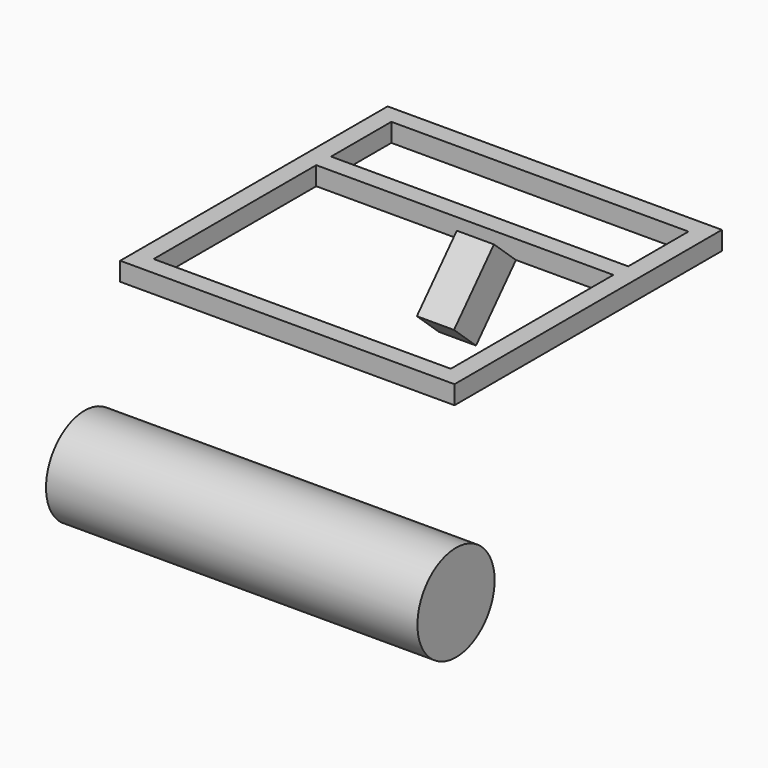
from build123d import *

# Parameters (mm, degrees)
F0_W     = 90
F0_H     = 90
F0_W_2   = 80
F0_H_2   = 5
F1_DEPTH = 5
F3_DEPTH = 10
F2_R     = 12.986588295
F5_DEPTH = 100


with BuildPart() as f1:
    # F0 (on Top) → F1 (new body)
    with BuildSketch(Plane.XY):
        Rectangle(F0_W, F0_H)
        Polygon((-40, 19.7184496745), (-40, 40), (40, 40), (40, 19.7184496745), (40, 14.7184496745), (40, -40), (-40, -40), (-40, 14.7184496745), align=None, mode=Mode.SUBTRACT)
        with Locations((0, 17.2184496745)):
            Rectangle(F0_W_2, F0_H_2)
    extrude(amount=F1_DEPTH)


with BuildPart() as f3:
    # F2 (on face) → F3 (new body)
    with BuildSketch(Plane.YZ.offset(45)):
        Polygon((-7.2609288618, -23.7884279341), (6.1792731618, -8.9775883371), (-1.2261466367, -2.2574873253), (-14.6663486603, -17.0683269223), align=None)
    extrude(amount=F3_DEPTH)


with BuildPart() as f3b:
    # F2 (on face) → F3, piece 2 (new body)
    with BuildSketch(Plane.YZ.offset(45)):
        with Locations((-48.2362657785, -44.4522388279)):
            Circle(F2_R)
    extrude(amount=F3_DEPTH)

    # F5 (add): a face of the model
    f5_faces = [f3b.faces().sort_by_distance(p)[0] for p in [
        (55, -48.2362657785, -44.4522388279),
    ]]
    extrude(f5_faces, amount=-F5_DEPTH)


with BuildPart() as f3_1:
    # F4: moved
    add(f3.part.moved(Location((-40, 7, 10))))


with BuildPart() as f3b_1:
    # F6: moved
    add(f3b.part.moved(Location((-7, 0, 0))))


solid = Compound([f1.part, f3_1.part, f3b_1.part])
